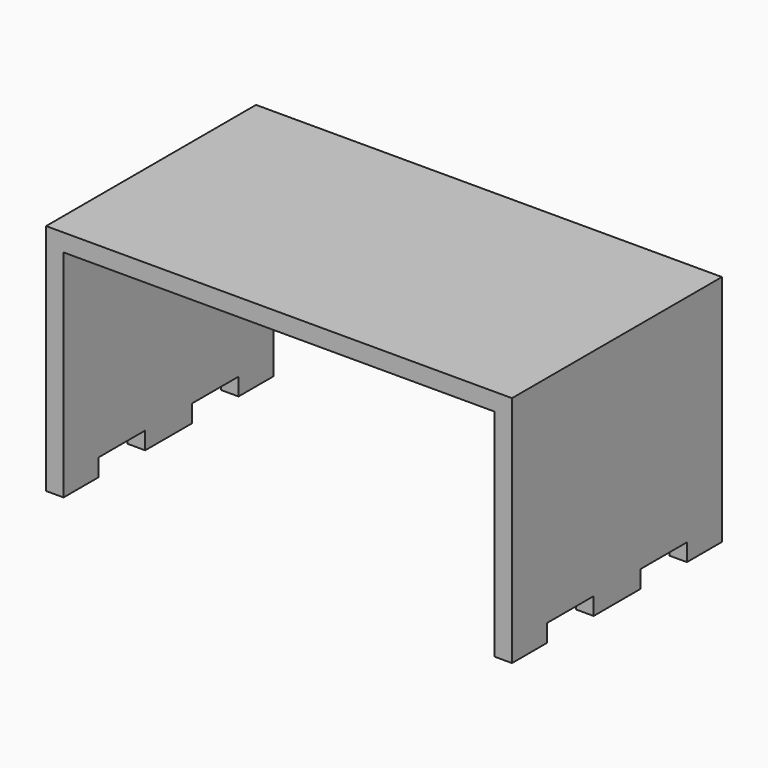
from build123d import *

# Parameters (mm, degrees)
F1_DEPTH = 45
F2_W     = 10
F2_H     = 3
F3_DEPTH = 25
F4_W     = 10
F4_H     = 3
F5_DEPTH = 25


with BuildPart() as f1:
    # F0 (on Front) → F1 (new body)
    with BuildSketch(Plane.XZ):
        Polygon((79.9, 3), (0, 3), (0, -37), (3, -37), (3, 0), (76.9, 0), (76.9, -37), (79.9, -37), align=None)
    extrude(amount=F1_DEPTH)

    # F2 (on face) → F3 (cut)
    with BuildSketch(Plane.YZ.offset(79.9)):
        with Locations((-32.5, -35.5)):
            Rectangle(F2_W, F2_H)
        with Locations((-12.5, -35.5)):
            Rectangle(F2_W, F2_H)
    extrude(amount=-F3_DEPTH, mode=Mode.SUBTRACT)

    # F4 (on face) → F5 (cut)
    with BuildSketch(Plane(origin=(0, 0, 0), x_dir=(0, -1, 0), z_dir=(-1, 0, 0))):
        with Locations((12.5, -35.5)):
            Rectangle(F4_W, F4_H)
        with Locations((32.5, -35.5)):
            Rectangle(F4_W, F4_H)
    extrude(amount=-F5_DEPTH, mode=Mode.SUBTRACT)


solid = f1.part
